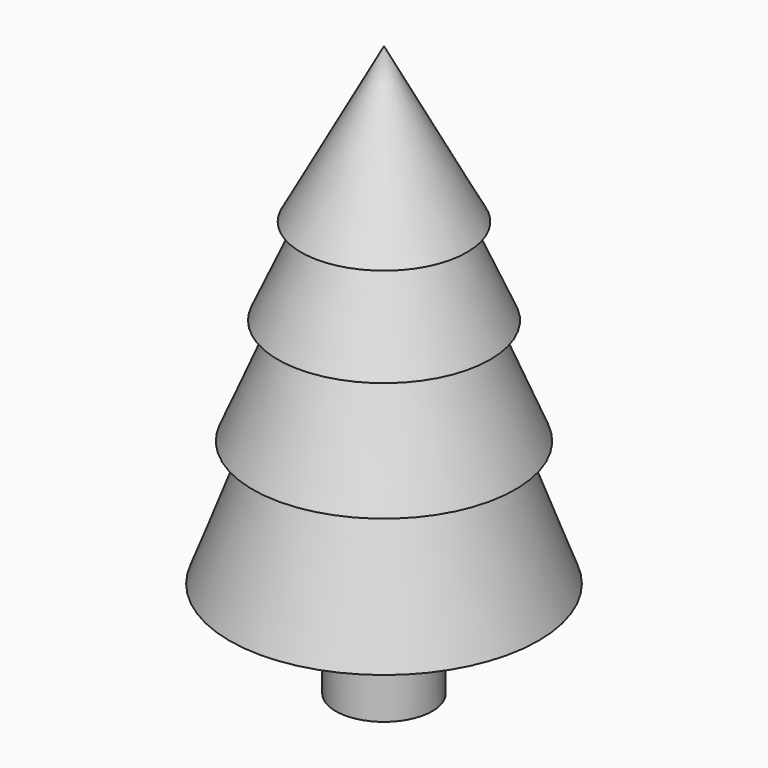
from build123d import *

# Parameters (mm, degrees)
F0_R      = 6.35
F1_DEPTH  = 12.7
F2_R      = 3.175
F3_DEPTH  = 6.35
F6_R      = 3.556
F7_DEPTH  = 7.62
F8_R      = 3.175
F9_DEPTH  = 6.35
F12_R     = 3.556
F13_DEPTH = 6.858
F14_R     = 3.175
F15_DEPTH = 5.08
F18_R     = 3.556
F19_DEPTH = 6.35
F20_R     = 3.175
F21_DEPTH = 3.81
F24_R     = 3.556
F25_DEPTH = 7.62


with BuildPart() as f1:
    # F0 (on Top) → F1 (new body)
    with BuildSketch(Plane.XY):
        Circle(F0_R)
    extrude(amount=F1_DEPTH)

    # F2 (on face) → F3 (join)
    with BuildSketch(Plane.XY.offset(12.7)):
        Circle(F2_R)
    extrude(amount=F3_DEPTH)


with BuildPart() as f5:
    # F4 (on Front) → F5 (revolve)
    with BuildSketch(Plane.XZ):
        Polygon((0, 29.21), (0, 12.7), (20.32, 12.7), (14.224, 29.21), align=None)
    revolve(axis=Axis((0, 0, 20.955), (0, 0, 1)))

    # F6 (on face) → F7 (cut)
    with BuildSketch(Plane(origin=(0, 0, 12.7), x_dir=(1, 0, 0), z_dir=(0, 0, -1))):
        Circle(F6_R)
    extrude(amount=-F7_DEPTH, mode=Mode.SUBTRACT)

    # F8 (on face) → F9 (join)
    with BuildSketch(Plane.XY.offset(29.21)):
        Circle(F8_R)
    extrude(amount=F9_DEPTH)


with BuildPart() as f11:
    # F10 (on Right) → F11 (revolve)
    with BuildSketch(Plane.YZ):
        Polygon((0, 29.21), (0, 43.18), (-11.43, 43.18), (-17.272, 29.21), align=None)
    revolve(axis=Axis((0, 0, 36.195), (0, 0, 1)))

    # F12 (on face) → F13 (cut)
    with BuildSketch(Plane(origin=(0, 0, 29.21), x_dir=(1, 0, 0), z_dir=(0, 0, -1))):
        Circle(F12_R)
    extrude(amount=-F13_DEPTH, mode=Mode.SUBTRACT)

    # F14 (on face) → F15 (join)
    with BuildSketch(Plane.XY.offset(43.18)):
        Circle(F14_R)
    extrude(amount=F15_DEPTH)


with BuildPart() as f17:
    # F16 (on Front) → F17 (revolve)
    with BuildSketch(Plane.XZ):
        Polygon((8.89, 54.61), (0, 54.61), (0, 43.18), (13.97, 43.18), align=None)
    revolve(axis=Axis((0, 0, 48.895), (0, 0, 1)))

    # F18 (on face) → F19 (cut)
    with BuildSketch(Plane(origin=(0, 0, 43.18), x_dir=(1, 0, 0), z_dir=(0, 0, -1))):
        Circle(F18_R)
    extrude(amount=-F19_DEPTH, mode=Mode.SUBTRACT)

    # F20 (on face) → F21 (join)
    with BuildSketch(Plane.XY.offset(54.61)):
        Circle(F20_R)
    extrude(amount=F21_DEPTH)


with BuildPart() as f23:
    # F22 (on Front) → F23 (revolve)
    with BuildSketch(Plane.XZ):
        Polygon((10.922, 54.61), (0, 74.93), (0, 54.61), align=None)
    revolve(axis=Axis((0, 0, 64.77), (0, 0, 1)))

    # F24 (on face) → F25 (cut)
    with BuildSketch(Plane(origin=(0, 0, 54.61), x_dir=(1, 0, 0), z_dir=(0, 0, -1))):
        Circle(F24_R)
    extrude(amount=-F25_DEPTH, mode=Mode.SUBTRACT)


solid = Compound([f1.part, f5.part, f11.part, f17.part, f23.part])
